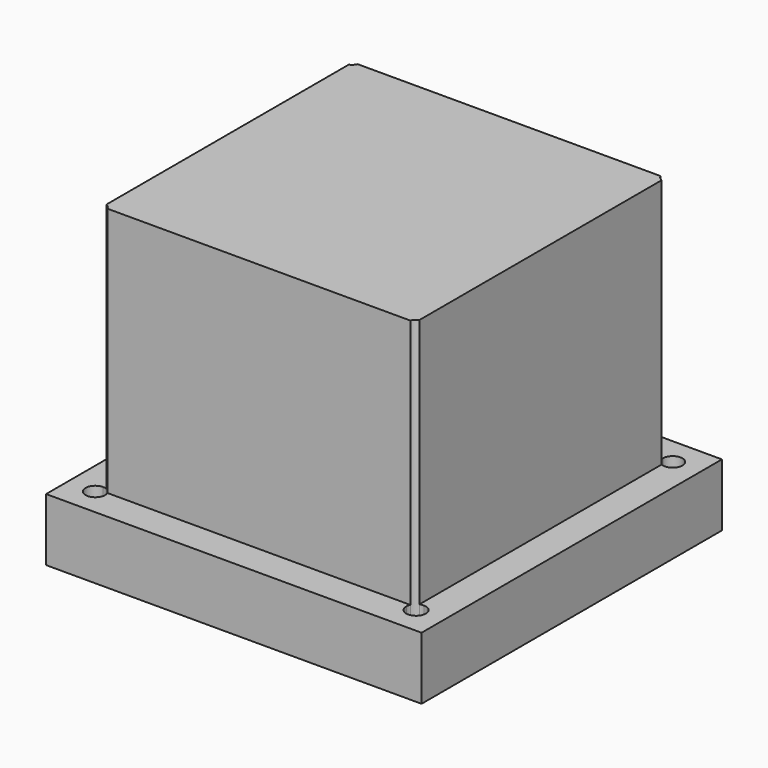
from build123d import *

# Parameters (mm, degrees)
F0_W     = 76.2
F0_H     = 76.2
F1_DEPTH = 12.7
F2_DEPTH = 50.8
F3_DEPTH = 12.7


with BuildPart() as f1:
    # F0 (on Top) → F1 (new body)
    with BuildSketch(Plane.XY):
        Rectangle(F0_W, F0_H)
        with BuildLine():
            Line((30.565725, -32.5501), (-30.565725, -32.5501))
            ThreePointArc((-30.565725, -32.5501), (-33.9532650189, -33.9532650189), (-32.5501, -30.565725))
            Line((-32.5501, -30.565725), (-32.5501, 30.565725))
            ThreePointArc((-32.5501, 30.565725), (-33.9532650189, 33.9532650189), (-30.565725, 32.5501))
            Line((-30.565725, 32.5501), (30.565725, 32.5501))
            ThreePointArc((30.565725, 32.5501), (32.5501, 34.534475), (34.534475, 32.5501))
            ThreePointArc((34.534475, 32.5501), (33.9532650189, 31.1469349811), (32.5501, 30.565725))
            Line((32.5501, 30.565725), (32.5501, -30.565725))
            ThreePointArc((32.5501, -30.565725), (33.9532650189, -31.1469349811), (34.534475, -32.5501))
            ThreePointArc((34.534475, -32.5501), (32.5501, -34.534475), (30.565725, -32.5501))
        make_face(mode=Mode.SUBTRACT)
        with BuildLine():
            ThreePointArc((-31.75, -30.7341748554), (-31.1469349811, -31.1469349811), (-30.7341748554, -31.75))
            Line((-30.7341748554, -31.75), (30.7341748554, -31.75))
            ThreePointArc((30.7341748554, -31.75), (31.1469349811, -31.1469349811), (31.75, -30.7341748554))
            Line((31.75, -30.7341748554), (31.75, 30.7341748554))
            ThreePointArc((31.75, 30.7341748554), (31.1469349811, 31.1469349811), (30.7341748554, 31.75))
            Line((30.7341748554, 31.75), (-30.7341748554, 31.75))
            ThreePointArc((-30.7341748554, 31.75), (-31.1469349811, 31.1469349811), (-31.75, 30.7341748554))
            Line((-31.75, 30.7341748554), (-31.75, -30.7341748554))
        make_face()
        with BuildLine():
            ThreePointArc((31.75, -30.7341748554), (32.1412799406, -30.6082940623), (32.5501, -30.565725))
            Line((32.5501, -30.565725), (32.5501, 30.565725))
            ThreePointArc((32.5501, 30.565725), (32.1412799406, 30.6082940623), (31.75, 30.7341748554))
            Line((31.75, 30.7341748554), (31.75, -30.7341748554))
        make_face()
        with BuildLine():
            ThreePointArc((-30.7341748554, -31.75), (-30.6082940623, -32.1412799406), (-30.565725, -32.5501))
            Line((-30.565725, -32.5501), (30.565725, -32.5501))
            ThreePointArc((30.565725, -32.5501), (30.6082940623, -32.1412799406), (30.7341748554, -31.75))
            Line((30.7341748554, -31.75), (-30.7341748554, -31.75))
        make_face()
        with BuildLine():
            Line((30.565725, 32.5501), (-30.565725, 32.5501))
            ThreePointArc((-30.565725, 32.5501), (-30.6082940623, 32.1412799406), (-30.7341748554, 31.75))
            Line((-30.7341748554, 31.75), (30.7341748554, 31.75))
            ThreePointArc((30.7341748554, 31.75), (30.6082940623, 32.1412799406), (30.565725, 32.5501))
        make_face()
        with BuildLine():
            Line((-32.5501, 30.565725), (-32.5501, -30.565725))
            ThreePointArc((-32.5501, -30.565725), (-32.1412799406, -30.6082940623), (-31.75, -30.7341748554))
            Line((-31.75, -30.7341748554), (-31.75, 30.7341748554))
            ThreePointArc((-31.75, 30.7341748554), (-32.1412799406, 30.6082940623), (-32.5501, 30.565725))
        make_face()
        with BuildLine():
            ThreePointArc((-32.5501, -30.565725), (-33.9532650189, -33.9532650189), (-30.565725, -32.5501))
            Line((-30.565725, -32.5501), (-32.5501, -32.5501))
            Line((-32.5501, -32.5501), (-32.5501, -30.565725))
        make_face()
        with BuildLine():
            Line((32.5501, 32.5501), (32.5501, 30.565725))
            ThreePointArc((32.5501, 30.565725), (33.9532650189, 31.1469349811), (34.534475, 32.5501))
            ThreePointArc((34.534475, 32.5501), (32.5501, 34.534475), (30.565725, 32.5501))
            Line((30.565725, 32.5501), (32.5501, 32.5501))
        make_face()
        with BuildLine():
            ThreePointArc((-30.565725, 32.5501), (-33.9532650189, 33.9532650189), (-32.5501, 30.565725))
            Line((-32.5501, 30.565725), (-32.5501, 32.5501))
            Line((-32.5501, 32.5501), (-30.565725, 32.5501))
        make_face()
        with BuildLine():
            Line((32.5501, -32.5501), (30.565725, -32.5501))
            ThreePointArc((30.565725, -32.5501), (32.5501, -34.534475), (34.534475, -32.5501))
            ThreePointArc((34.534475, -32.5501), (33.9532650189, -31.1469349811), (32.5501, -30.565725))
            Line((32.5501, -30.565725), (32.5501, -32.5501))
        make_face()
        with BuildLine():
            ThreePointArc((31.75, 30.7341748554), (32.1412799406, 30.6082940623), (32.5501, 30.565725))
            Line((32.5501, 30.565725), (32.5501, 32.5501))
            Line((32.5501, 32.5501), (30.565725, 32.5501))
            ThreePointArc((30.565725, 32.5501), (30.6082940623, 32.1412799406), (30.7341748554, 31.75))
            Line((30.7341748554, 31.75), (31.75, 31.75))
            Line((31.75, 31.75), (31.75, 30.7341748554))
        make_face()
        with BuildLine():
            Line((-32.5501, -32.5501), (-30.565725, -32.5501))
            ThreePointArc((-30.565725, -32.5501), (-30.6082940623, -32.1412799406), (-30.7341748554, -31.75))
            Line((-30.7341748554, -31.75), (-31.75, -31.75))
            Line((-31.75, -31.75), (-31.75, -30.7341748554))
            ThreePointArc((-31.75, -30.7341748554), (-32.1412799406, -30.6082940623), (-32.5501, -30.565725))
            Line((-32.5501, -30.565725), (-32.5501, -32.5501))
        make_face()
        with BuildLine():
            Line((-31.75, 31.75), (-31.75, 30.7341748554))
            ThreePointArc((-31.75, 30.7341748554), (-31.1469349811, 31.1469349811), (-30.7341748554, 31.75))
            Line((-30.7341748554, 31.75), (-31.75, 31.75))
        make_face()
        with BuildLine():
            ThreePointArc((30.7341748554, -31.75), (30.6082940623, -32.1412799406), (30.565725, -32.5501))
            Line((30.565725, -32.5501), (32.5501, -32.5501))
            Line((32.5501, -32.5501), (32.5501, -30.565725))
            ThreePointArc((32.5501, -30.565725), (32.1412799406, -30.6082940623), (31.75, -30.7341748554))
            Line((31.75, -30.7341748554), (31.75, -31.75))
            Line((31.75, -31.75), (30.7341748554, -31.75))
        make_face()
        with BuildLine():
            ThreePointArc((30.7341748554, 31.75), (31.1469349811, 31.1469349811), (31.75, 30.7341748554))
            Line((31.75, 30.7341748554), (31.75, 31.75))
            Line((31.75, 31.75), (30.7341748554, 31.75))
        make_face()
        with BuildLine():
            Line((-31.75, -31.75), (-30.7341748554, -31.75))
            ThreePointArc((-30.7341748554, -31.75), (-31.1469349811, -31.1469349811), (-31.75, -30.7341748554))
            Line((-31.75, -30.7341748554), (-31.75, -31.75))
        make_face()
        with BuildLine():
            ThreePointArc((31.75, -30.7341748554), (31.1469349811, -31.1469349811), (30.7341748554, -31.75))
            Line((30.7341748554, -31.75), (31.75, -31.75))
            Line((31.75, -31.75), (31.75, -30.7341748554))
        make_face()
        with BuildLine():
            Line((-32.5501, 32.5501), (-32.5501, 30.565725))
            ThreePointArc((-32.5501, 30.565725), (-32.1412799406, 30.6082940623), (-31.75, 30.7341748554))
            Line((-31.75, 30.7341748554), (-31.75, 31.75))
            Line((-31.75, 31.75), (-30.7341748554, 31.75))
            ThreePointArc((-30.7341748554, 31.75), (-30.6082940623, 32.1412799406), (-30.565725, 32.5501))
            Line((-30.565725, 32.5501), (-32.5501, 32.5501))
        make_face()
    extrude(amount=-F1_DEPTH)

    # F0 (on Top) → F2 (join)
    with BuildSketch(Plane.XY):
        with BuildLine():
            ThreePointArc((-31.75, -30.7341748554), (-31.1469349811, -31.1469349811), (-30.7341748554, -31.75))
            Line((-30.7341748554, -31.75), (30.7341748554, -31.75))
            ThreePointArc((30.7341748554, -31.75), (31.1469349811, -31.1469349811), (31.75, -30.7341748554))
            Line((31.75, -30.7341748554), (31.75, 30.7341748554))
            ThreePointArc((31.75, 30.7341748554), (31.1469349811, 31.1469349811), (30.7341748554, 31.75))
            Line((30.7341748554, 31.75), (-30.7341748554, 31.75))
            ThreePointArc((-30.7341748554, 31.75), (-31.1469349811, 31.1469349811), (-31.75, 30.7341748554))
            Line((-31.75, 30.7341748554), (-31.75, -30.7341748554))
        make_face()
    extrude(amount=F2_DEPTH)

    # F0 (on Top) → F3 (cut, through all)
    with BuildSketch(Plane.XY):
        with BuildLine():
            ThreePointArc((-32.5501, -30.565725), (-33.9532650189, -33.9532650189), (-30.565725, -32.5501))
            Line((-30.565725, -32.5501), (-32.5501, -32.5501))
            Line((-32.5501, -32.5501), (-32.5501, -30.565725))
        make_face()
        with BuildLine():
            Line((-32.5501, -32.5501), (-30.565725, -32.5501))
            ThreePointArc((-30.565725, -32.5501), (-30.6082940623, -32.1412799406), (-30.7341748554, -31.75))
            Line((-30.7341748554, -31.75), (-31.75, -31.75))
            Line((-31.75, -31.75), (-31.75, -30.7341748554))
            ThreePointArc((-31.75, -30.7341748554), (-32.1412799406, -30.6082940623), (-32.5501, -30.565725))
            Line((-32.5501, -30.565725), (-32.5501, -32.5501))
        make_face()
        with BuildLine():
            Line((-31.75, -31.75), (-30.7341748554, -31.75))
            ThreePointArc((-30.7341748554, -31.75), (-31.1469349811, -31.1469349811), (-31.75, -30.7341748554))
            Line((-31.75, -30.7341748554), (-31.75, -31.75))
        make_face()
        with BuildLine():
            Line((32.5501, -32.5501), (30.565725, -32.5501))
            ThreePointArc((30.565725, -32.5501), (32.5501, -34.534475), (34.534475, -32.5501))
            ThreePointArc((34.534475, -32.5501), (33.9532650189, -31.1469349811), (32.5501, -30.565725))
            Line((32.5501, -30.565725), (32.5501, -32.5501))
        make_face()
        with BuildLine():
            ThreePointArc((30.7341748554, -31.75), (30.6082940623, -32.1412799406), (30.565725, -32.5501))
            Line((30.565725, -32.5501), (32.5501, -32.5501))
            Line((32.5501, -32.5501), (32.5501, -30.565725))
            ThreePointArc((32.5501, -30.565725), (32.1412799406, -30.6082940623), (31.75, -30.7341748554))
            Line((31.75, -30.7341748554), (31.75, -31.75))
            Line((31.75, -31.75), (30.7341748554, -31.75))
        make_face()
        with BuildLine():
            ThreePointArc((31.75, -30.7341748554), (31.1469349811, -31.1469349811), (30.7341748554, -31.75))
            Line((30.7341748554, -31.75), (31.75, -31.75))
            Line((31.75, -31.75), (31.75, -30.7341748554))
        make_face()
        with BuildLine():
            ThreePointArc((30.7341748554, 31.75), (31.1469349811, 31.1469349811), (31.75, 30.7341748554))
            Line((31.75, 30.7341748554), (31.75, 31.75))
            Line((31.75, 31.75), (30.7341748554, 31.75))
        make_face()
        with BuildLine():
            ThreePointArc((31.75, 30.7341748554), (32.1412799406, 30.6082940623), (32.5501, 30.565725))
            Line((32.5501, 30.565725), (32.5501, 32.5501))
            Line((32.5501, 32.5501), (30.565725, 32.5501))
            ThreePointArc((30.565725, 32.5501), (30.6082940623, 32.1412799406), (30.7341748554, 31.75))
            Line((30.7341748554, 31.75), (31.75, 31.75))
            Line((31.75, 31.75), (31.75, 30.7341748554))
        make_face()
        with BuildLine():
            Line((32.5501, 32.5501), (32.5501, 30.565725))
            ThreePointArc((32.5501, 30.565725), (33.9532650189, 31.1469349811), (34.534475, 32.5501))
            ThreePointArc((34.534475, 32.5501), (32.5501, 34.534475), (30.565725, 32.5501))
            Line((30.565725, 32.5501), (32.5501, 32.5501))
        make_face()
        with BuildLine():
            ThreePointArc((-30.565725, 32.5501), (-33.9532650189, 33.9532650189), (-32.5501, 30.565725))
            Line((-32.5501, 30.565725), (-32.5501, 32.5501))
            Line((-32.5501, 32.5501), (-30.565725, 32.5501))
        make_face()
        with BuildLine():
            Line((-32.5501, 32.5501), (-32.5501, 30.565725))
            ThreePointArc((-32.5501, 30.565725), (-32.1412799406, 30.6082940623), (-31.75, 30.7341748554))
            Line((-31.75, 30.7341748554), (-31.75, 31.75))
            Line((-31.75, 31.75), (-30.7341748554, 31.75))
            ThreePointArc((-30.7341748554, 31.75), (-30.6082940623, 32.1412799406), (-30.565725, 32.5501))
            Line((-30.565725, 32.5501), (-32.5501, 32.5501))
        make_face()
        with BuildLine():
            Line((-31.75, 31.75), (-31.75, 30.7341748554))
            ThreePointArc((-31.75, 30.7341748554), (-31.1469349811, 31.1469349811), (-30.7341748554, 31.75))
            Line((-30.7341748554, 31.75), (-31.75, 31.75))
        make_face()
    extrude(amount=-F3_DEPTH, mode=Mode.SUBTRACT)


solid = f1.part
